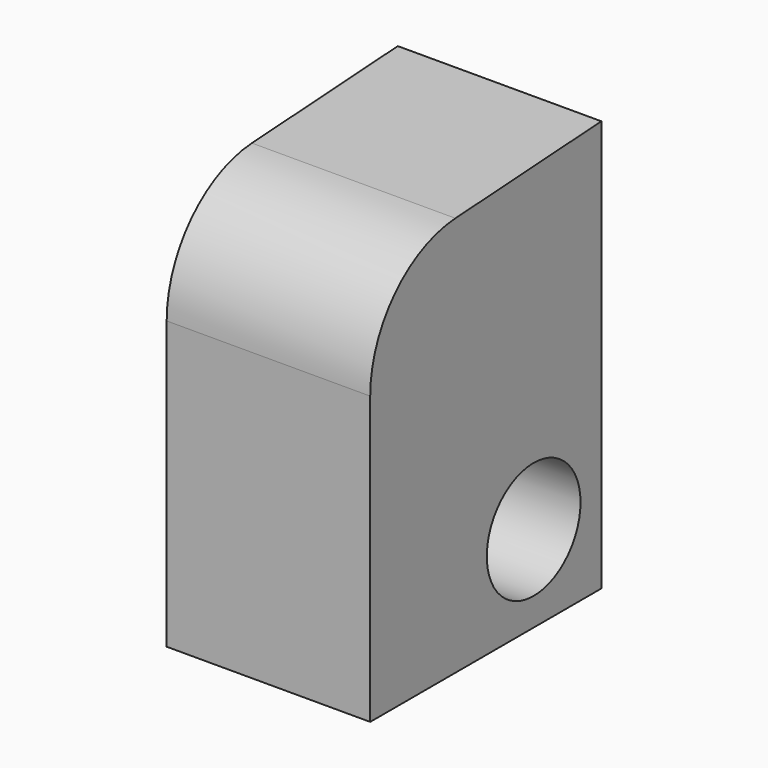
from build123d import *

# Parameters (mm, degrees)
F1_DEPTH = 25.4
F2_R     = 7.311466
F3_DEPTH = 25.4


with BuildPart() as f1:
    # F0 (on Right) → F1 (new body)
    with BuildSketch(Plane.YZ):
        with BuildLine():
            ThreePointArc((-42.888714, 42.924615), (-52.333318, 38.490461), (-56.177065, 28.790571))
            Line((-56.177065, 28.790571), (-56.177065, -7.006547))
            Line((-56.177065, -7.006547), (-20.125262, -7.006547))
            Line((-20.125262, -7.006547), (-20.125262, 44.329979))
            Line((-20.125262, 44.329979), (-42.888714, 42.924615))
        make_face()
    extrude(amount=-F1_DEPTH)

    # F2 (on Right) → F3 (cut)
    with BuildSketch(Plane.YZ):
        with Locations((-30.67892, 3.780983)):
            Circle(F2_R)
    extrude(amount=-F3_DEPTH, mode=Mode.SUBTRACT)


solid = f1.part
